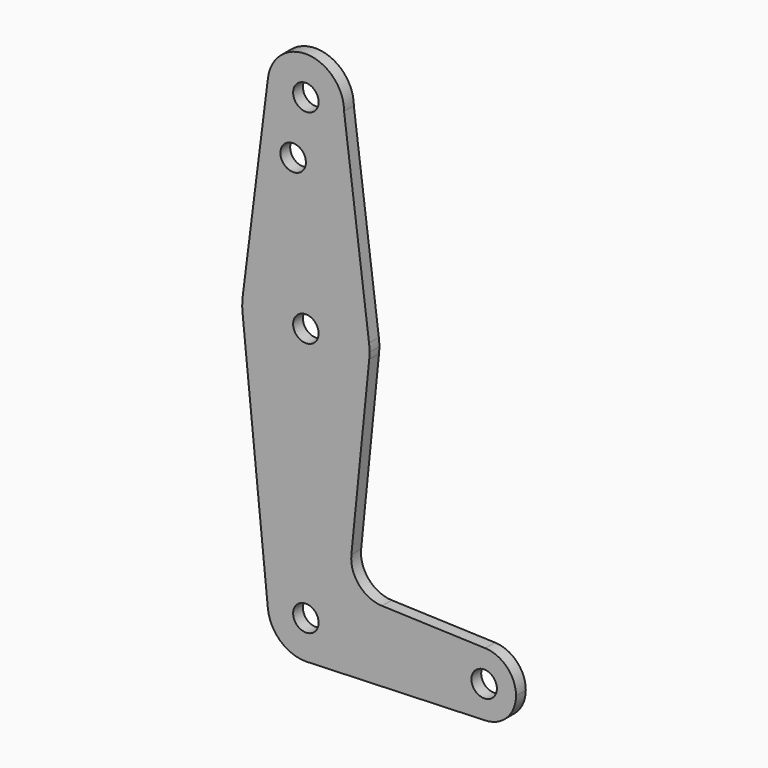
from build123d import *

# Parameters (mm, degrees)
F0_R     = 3.175
F1_DEPTH = 3.048


with BuildPart() as f1:
    # F0 (on Front) → F1 (new body)
    with BuildSketch(Plane.XZ):
        with BuildLine():
            ThreePointArc((-9.450293, 115.490625), (-0.596483, 104.793695), (9.525, 114.3))
            ThreePointArc((9.525, 114.3), (0.596483, 123.806305), (-9.450293, 115.490625))
        make_face()
        with Locations((0, 114.3)):
            Circle(F0_R, mode=Mode.SUBTRACT)
        with BuildLine():
            Line((15.747457, 65.508289), (9.525, 114.3))
            ThreePointArc((9.525, 114.3), (-0.596483, 104.793695), (-9.450293, 115.490625))
            Line((-9.450293, 115.490625), (-15.750488, 65.484375))
            ThreePointArc((-15.750488, 65.484375), (-0.012053, 79.374995), (15.747457, 65.508289))
        make_face()
        with Locations((-3.175, 100.0252)):
            Circle(F0_R, mode=Mode.SUBTRACT)
        with BuildLine():
            ThreePointArc((15.875, 63.5), (15.843082, 64.506168), (15.747457, 65.508289))
            ThreePointArc((15.747457, 65.508289), (-0.012053, 79.374995), (-15.750488, 65.484375))
            ThreePointArc((-15.750488, 65.484375), (-15.873744, 63.699705), (-15.795426, 61.9125))
            ThreePointArc((-15.795426, 61.9125), (0, 47.625), (15.795426, 61.9125))
            ThreePointArc((15.795426, 61.9125), (15.855094, 62.705253), (15.875, 63.5))
        make_face()
        with Locations((0, 63.5)):
            Circle(F0_R, mode=Mode.SUBTRACT)
        with BuildLine():
            ThreePointArc((15.795426, 61.9125), (0, 47.625), (-15.795426, 61.9125))
            Line((-15.795426, 61.9125), (-9.477255, -0.9525))
            ThreePointArc((-9.477255, -0.9525), (-0.476848, 9.513056), (9.525, 0))
            ThreePointArc((9.525, 0), (6.970557, -6.491299), (0.677344, -9.500886))
            Line((0.677344, -9.500886), (44.732405, -7.932475))
            ThreePointArc((44.732405, -7.932475), (36.5125, 0.000539), (44.733482, 7.932436))
            Line((44.733482, 7.932436), (18.9676, 8.853234))
            ThreePointArc((18.9676, 8.853234), (13.2612, 11.571359), (11.341187, 17.593382))
            Line((11.341187, 17.593382), (15.795426, 61.9125))
        make_face()
        with BuildLine():
            ThreePointArc((9.525, 0), (-0.476848, 9.513056), (-9.477255, -0.9525))
            ThreePointArc((-9.477255, -0.9525), (-6.389564, -7.063929), (0, -9.525))
            Line((0, -9.525), (0.677344, -9.500886))
            ThreePointArc((0.677344, -9.500886), (6.970557, -6.491299), (9.525, 0))
        make_face()
        Circle(F0_R, mode=Mode.SUBTRACT)
        with BuildLine():
            Line((0.677344, -9.500886), (0, -9.525))
            ThreePointArc((0, -9.525), (0.338886, -9.51897), (0.677344, -9.500886))
        make_face()
        with BuildLine():
            ThreePointArc((52.3875, 0), (50.162007, 5.511523), (44.733482, 7.932436))
            ThreePointArc((44.733482, 7.932436), (36.5125, 0.000539), (44.732405, -7.932475))
            ThreePointArc((44.732405, -7.932475), (50.161633, -5.51191), (52.3875, 0))
        make_face()
        with Locations((44.45, 0)):
            Circle(F0_R, mode=Mode.SUBTRACT)
    extrude(amount=F1_DEPTH)


solid = f1.part
